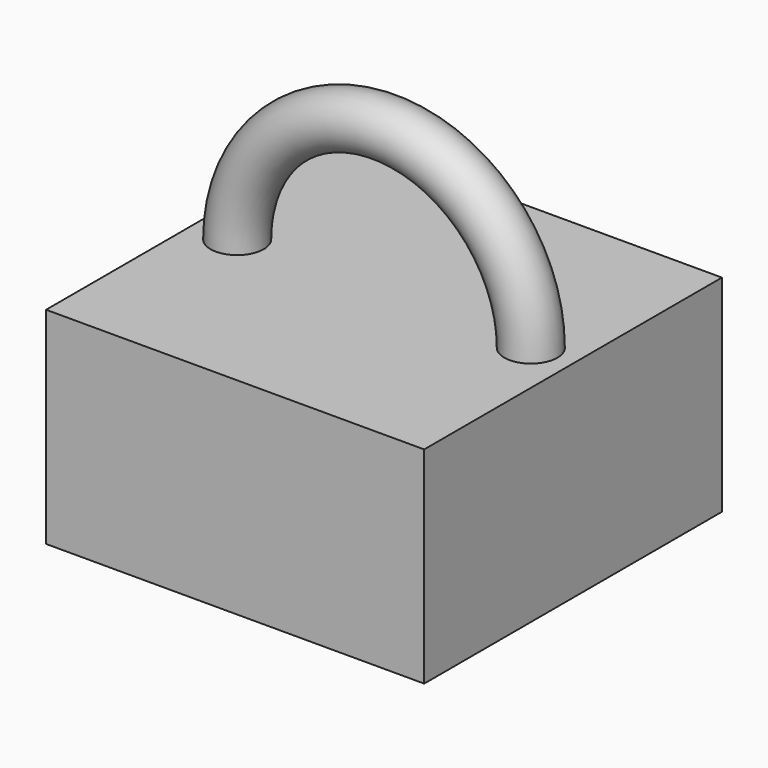
from build123d import *

# Parameters (mm, degrees)
F1_R     = 9.824635
F2_ANGLE = 180
F0_W     = 69.863096
F0_H     = 137.526572
F3_DEPTH = 76.2


with BuildPart() as f2:
    # F1 (on Top) → F2 (revolve)
    with BuildSketch(Plane.XY):
        with Locations((54.264009, 0)):
            Circle(F1_R)
    revolve(axis=Axis((0, 0, 0), (0, -1, 0)), revolution_arc=F2_ANGLE)

    # F0 (on Top) → F3 (join)
    with BuildSketch(Plane.XY):
        with Locations((-34.931548, 0)):
            Rectangle(F0_W, F0_H)
        with Locations((34.931548, 0)):
            Rectangle(F0_W, F0_H)
    extrude(amount=-F3_DEPTH)


solid = f2.part
